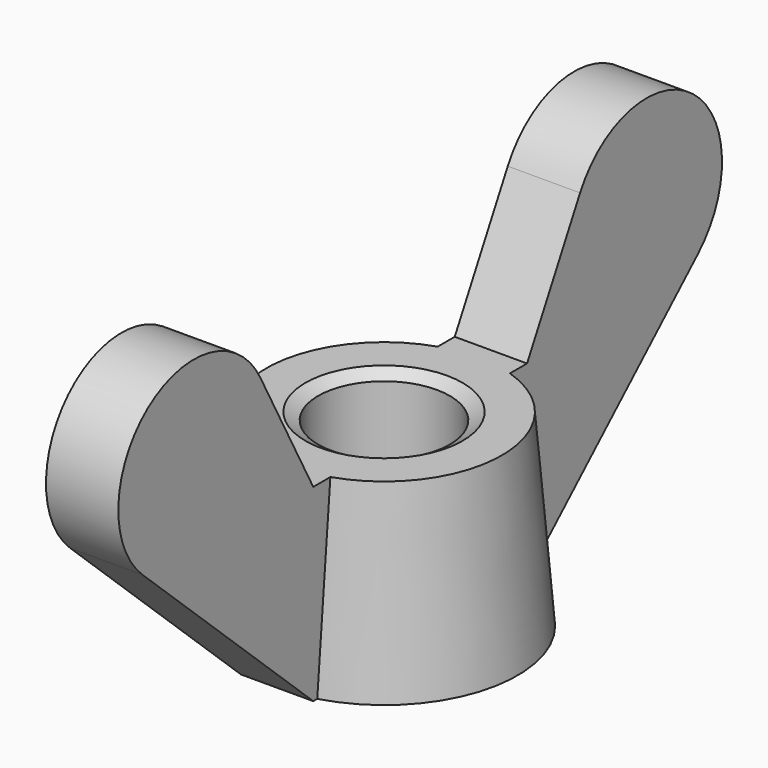
from build123d import *

# Parameters (mm, degrees)
PAD_DEPTH = 2.3


with BuildPart() as pad:
    # Sketch001 → Pad (new body, symmetric)
    with BuildSketch(Plane.YZ):
        with BuildLine():
            Line((5, 0), (5, 12))
            Line((5, 12), (8.5, 12))
            Line((8.5, 12), (12.715243, 19.841011))
            ThreePointArc((22.081098, 12.601746), (21.669324, 21.747216), (12.715243, 19.841011))
            Line((8.5, 0), (22.081098, 12.601746))
            Line((5, 0), (8.5, 0))
        make_face()
        with BuildLine():
            Line((-22.081101, 12.60177), (-8.500026, 0))
            Line((-8.500026, 0), (-5.000026, 0))
            Line((-5.000026, 0), (-5.000026, 12))
            Line((-5.000026, 12), (-8.500026, 12))
            Line((-8.500026, 12), (-12.71524, 19.841026))
            ThreePointArc((-12.71524, 19.841026), (-21.66932, 21.747241), (-22.081101, 12.60177))
        make_face()
    extrude(amount=PAD_DEPTH, both=True)


with BuildPart() as obj1:
    # Sketch → Revolution (revolve)
    with BuildSketch(Plane.YZ):
        Polygon((5, 0), (4.19, 0.467654), (4.19, 11.532346), (5, 12), (7.5, 12), (8.5, 0), align=None)
    revolve(axis=Axis((0, 0, 0), (0, 0, 1)))

    # Fusion: union Pad
    add(pad.part)


solid = obj1.part
